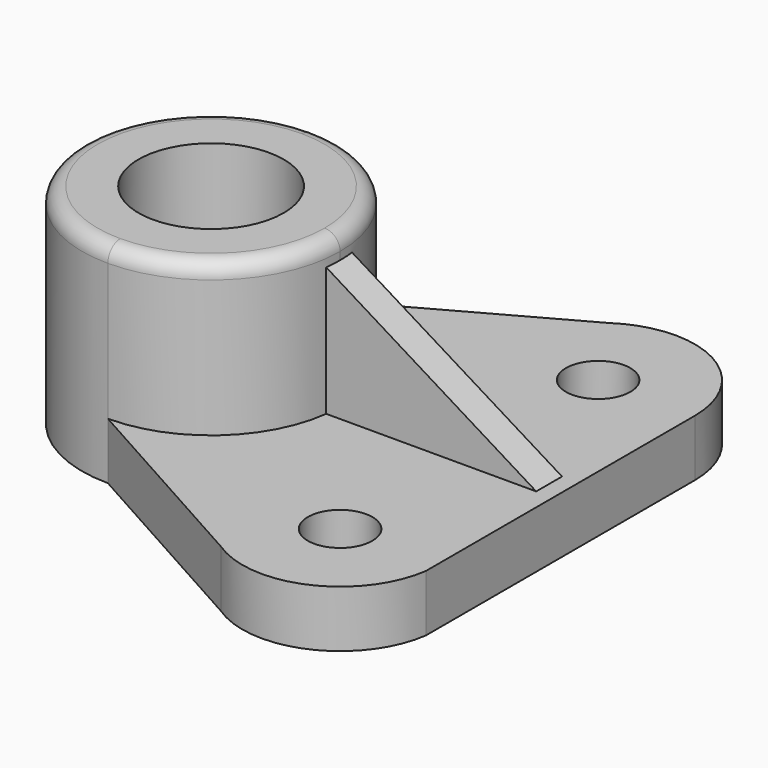
from build123d import *

# Parameters (mm, degrees)
F0_R     = 14.2875
F1_DEPTH = 41.148
F0_R_2   = 6.35
F2_DEPTH = 11.176
F3_R     = 3.048
F5_DEPTH = 25.4
F7_DEPTH = 54.1640026378


with BuildPart() as f1:
    # F0 (on Top) → F1 (new body)
    with BuildSketch(Plane.XY):
        with BuildLine():
            ThreePointArc((-32.0825431228, 4.2204351945), (-14.1220308807, 11.6599229523), (-6.6825431228, 29.6204351945))
            ThreePointArc((-6.6825431228, 29.6204351945), (-14.1220308807, 47.5809474366), (-32.0825431228, 55.0204351945))
            ThreePointArc((-32.0825431228, 55.0204351945), (-57.4825431228, 29.6204351945), (-32.0825431228, 4.2204351945))
        make_face()
        with Locations((-32.0825431228, 29.6204351945)):
            Circle(F0_R, mode=Mode.SUBTRACT)
    extrude(amount=F1_DEPTH)

    # F0 (on Top) → F2 (join)
    with BuildSketch(Plane.XY):
        with BuildLine():
            ThreePointArc((-32.0825431228, 55.0204351945), (-14.1220308807, 47.5809474366), (-6.6825431228, 29.6204351945))
            ThreePointArc((-6.6825431228, 29.6204351945), (-14.1220308807, 11.6599229523), (-32.0825431228, 4.2204351945))
            Line((-32.0825431228, 4.2204351945), (8.057578387, -18.1441748871))
            ThreePointArc((8.057578387, -18.1441748871), (26.5875021064, -19.6841406643), (37.7656240054, -4.8255014786))
            Line((37.7656240054, -4.8255014786), (37.7656240054, 61.3704351945))
            ThreePointArc((37.7656240054, 61.3704351945), (27.6561701568, 78.1921216294), (8.057578387, 77.159943217))
            Line((8.057578387, 77.159943217), (-32.0825431228, 55.0204351945))
        make_face()
        with Locations((18.7174568772, -2.1295648055)):
            Circle(F0_R_2, mode=Mode.SUBTRACT)
        with Locations((18.7156240054, 61.3704351945)):
            Circle(F0_R_2, mode=Mode.SUBTRACT)
    extrude(amount=F2_DEPTH)

    # F3
    f3_edges = [f1.edges().sort_by_distance(p)[0] for p in [
        (-32.082543, 4.220435, 41.148),
    ]]
    fillet(f3_edges, radius=F3_R)

    # F4 (on face) → F5 (join)
    with BuildSketch(Plane.XY.offset(11.176)):
        with BuildLine():
            Line((34.4636240054, 26.4454351945), (34.4636240054, 32.7954351945))
            Line((34.4636240054, 32.7954351945), (-6.8817618849, 32.7954351945))
            ThreePointArc((-6.8817618849, 32.7954351945), (-6.6825431228, 29.6204351945), (-6.8817618849, 26.4454351945))
            Line((-6.8817618849, 26.4454351945), (34.4636240054, 26.4454351945))
        make_face()
    extrude(amount=F5_DEPTH)

    # F6 (on face) → F7 (cut, through all)
    with BuildSketch(Plane(origin=(0, 32.7954351945, 0), x_dir=(-1, 0, 0), z_dir=(0, 1, 0))):
        Polygon((-34.4636240054, 11.176), (6.8817618849, 36.576), (-34.4636240054, 36.576), align=None)
    extrude(amount=-F7_DEPTH, mode=Mode.SUBTRACT)


solid = f1.part
